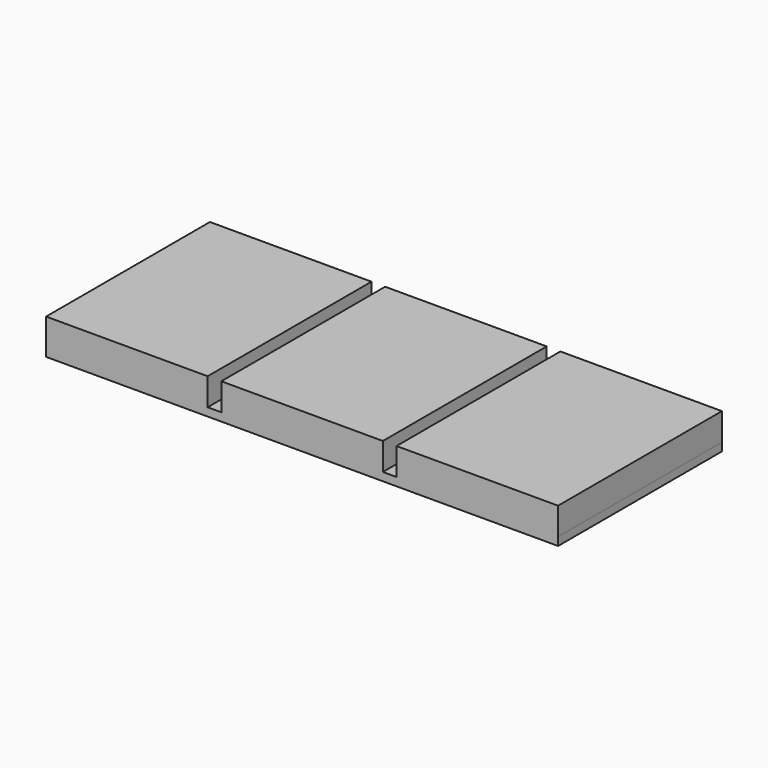
from build123d import *

# Parameters (mm, degrees)
F0_W     = 75
F0_H     = 30
F1_DEPTH = 1.2
F2_W     = 23.666667
F2_H     = 30
F2_W_2   = 23.666666
F3_DEPTH = 4


with BuildPart() as f1:
    # F0 (on Top) → F1 (new body)
    with BuildSketch(Plane.XY):
        with Locations((37.5, 15)):
            Rectangle(F0_W, F0_H)
    extrude(amount=F1_DEPTH)

    # F2 (on face) → F3 (join)
    with BuildSketch(Plane.XY.offset(1.2)):
        with Locations((11.833334, 15)):
            Rectangle(F2_W, F2_H)
        with Locations((37.5, 15)):
            Rectangle(F2_W_2, F2_H)
        with Locations((63.166666, 15)):
            Rectangle(F2_W, F2_H)
    extrude(amount=F3_DEPTH)


solid = f1.part
